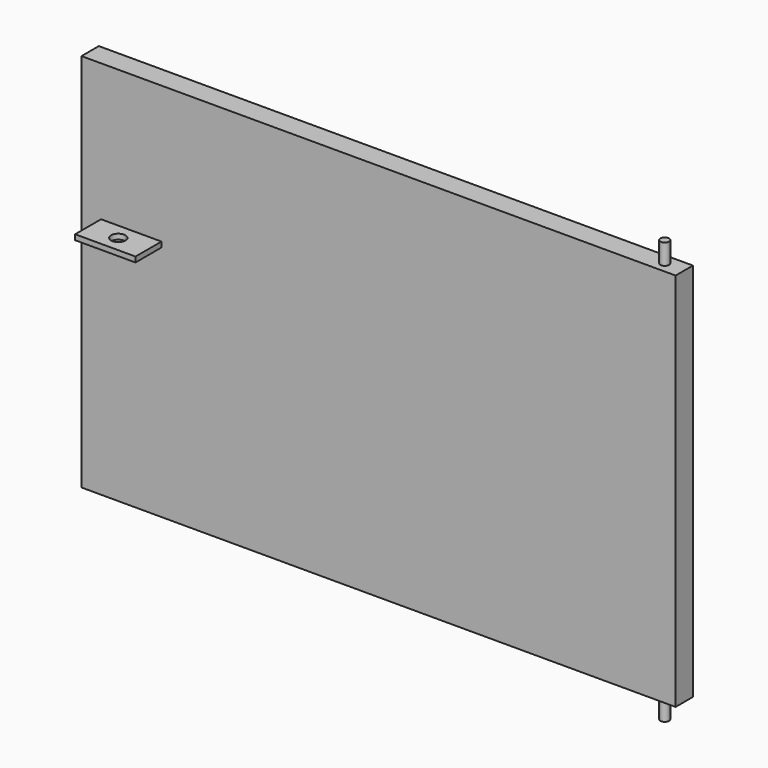
from build123d import *

# Parameters (mm, degrees)
F0_W          = 274.5
F0_H          = 10
F1_DEPTH      = 175.5
F2_T          = -2.5
F3_R          = 2
F4_DEPTH      = 10
F4_DEPTH_BACK = 185
F5_W          = 27.900162
F5_H          = 2.426103
F6_DEPTH      = 15
F7_R          = 3.313437
F8_DEPTH      = 25


with BuildPart() as f1:
    # F0 (on Top) → F1 (new body)
    with BuildSketch(Plane.XY):
        with Locations((137.25, 5)):
            Rectangle(F0_W, F0_H)
    extrude(amount=F1_DEPTH)

    # F2
    f2_openings = [f1.faces().sort_by_distance(p)[0] for p in [
        (137.25, 10, 87.75),
    ]]
    offset(amount=F2_T, openings=f2_openings)

    # F3 (on face) → F4 (join, two sides)
    with BuildSketch(Plane(origin=(0, 0, 0), x_dir=(1, 0, 0), z_dir=(0, 0, -1))) as f4_sk:
        with Locations((265.5, -5)):
            Circle(F3_R)
    extrude(amount=F4_DEPTH)
    extrude(f4_sk.sketch, amount=-F4_DEPTH_BACK)

    # F5 (on face) → F6 (join)
    with BuildSketch(Plane.XZ):
        with Locations((22.99581, 110.854611)):
            Rectangle(F5_W, F5_H)
    extrude(amount=F6_DEPTH)

    # F7 (on face) → F8 (cut)
    with BuildSketch(Plane(origin=(0, 0, 109.641559), x_dir=(1, 0, 0), z_dir=(0, 0, -1))):
        with Locations((22.99581, 7.5)):
            Circle(F7_R)
    extrude(amount=-F8_DEPTH, mode=Mode.SUBTRACT)


solid = f1.part
